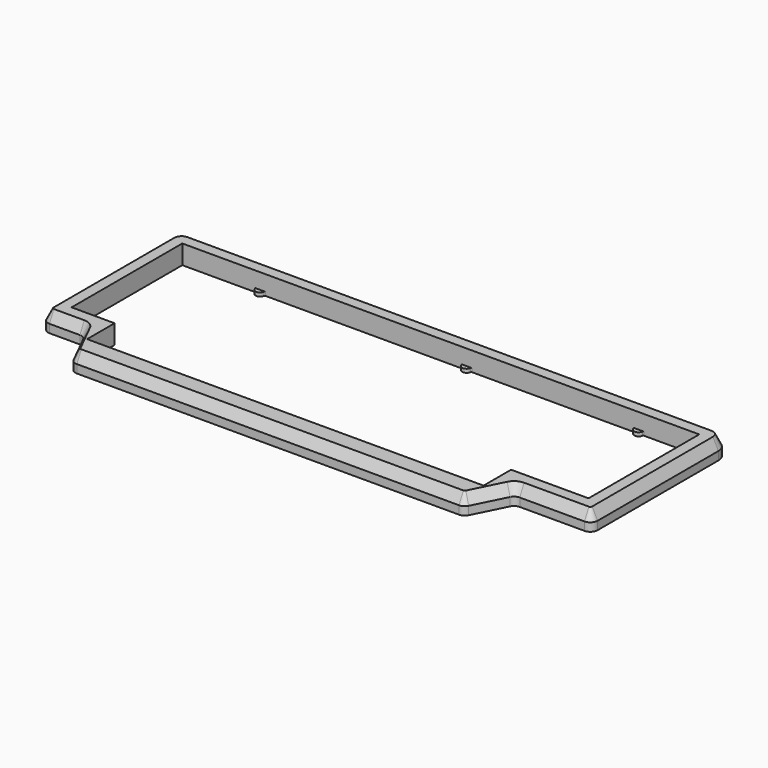
from build123d import *

# Parameters (mm, degrees)
PAD_DEPTH      = 10.6
PAD005_DEPTH   = 2
FILLET_R       = 4
FILLET014_R    = 7
CHAMFER_SIZE2  = 6
CHAMFER_SIZE   = 3
SKETCH020_R    = 1.25
HOLE007_DEPTH  = 5
HOLE007_TIPS_R = 1.25


with BuildPart() as part:
    # Sketch → Pad (new body)
    with BuildSketch(Plane.XY):
        Polygon((-152.075, 56.825), (152.075, 56.825), (152.075, -37.775), (109.7375, -37.775), (98.7125, -59.825), (-117.7625, -59.825), (-128.7875, -37.775), (-152.075, -37.775), align=None)
        Polygon((-143.075, 47.825), (143.075, 47.825), (143.075, -28.775), (100.2125, -28.775), (100.2125, -47.825), (-119.2625, -47.825), (-119.2625, -28.775), (-143.075, -28.775), align=None, mode=Mode.SUBTRACT)
    extrude(amount=PAD_DEPTH)

    # Sketch011 (on Face17 of Pad) → Pad005 (join)
    with BuildSketch(Plane(origin=(0, 0, 0), x_dir=(1, 0, 0), z_dir=(0, 0, -1))):
        with BuildLine():
            ThreePointArc((16.752533, -47.408333), (14.2875, -45.325), (11.822467, -47.408333))
            ThreePointArc((11.32946, -47.825), (11.652209, -47.706881), (11.822467, -47.408333))
            Line((11.32946, -47.825), (17.24554, -47.825))
            ThreePointArc((16.752533, -47.408333), (16.922791, -47.706881), (17.24554, -47.825))
        make_face()
        with BuildLine():
            ThreePointArc((112.002533, -47.408333), (109.5375, -45.325), (107.072467, -47.408333))
            ThreePointArc((106.57946, -47.825), (106.902209, -47.706881), (107.072467, -47.408333))
            Line((106.57946, -47.825), (112.49554, -47.825))
            ThreePointArc((112.002533, -47.408333), (112.172791, -47.706881), (112.49554, -47.825))
        make_face()
        with BuildLine():
            ThreePointArc((-97.547467, -47.408333), (-100.0125, -45.325), (-102.477533, -47.408333))
            ThreePointArc((-102.97054, -47.825), (-102.647791, -47.706881), (-102.477533, -47.408333))
            Line((-102.97054, -47.825), (-97.05446, -47.825))
            ThreePointArc((-97.547467, -47.408333), (-97.377209, -47.706881), (-97.05446, -47.825))
        make_face()
        with BuildLine():
            ThreePointArc((73.734967, 47.408333), (76.2, 45.325), (78.665033, 47.408333))
            ThreePointArc((79.15804, 47.825), (78.835291, 47.706881), (78.665033, 47.408333))
            Line((73.24196, 47.825), (79.15804, 47.825))
            ThreePointArc((73.734967, 47.408333), (73.564709, 47.706881), (73.24196, 47.825))
        make_face()
        with BuildLine():
            ThreePointArc((-97.715033, 47.408333), (-95.25, 45.325), (-92.784967, 47.408333))
            ThreePointArc((-92.29196, 47.825), (-92.614709, 47.706881), (-92.784967, 47.408333))
            Line((-98.20804, 47.825), (-92.29196, 47.825))
            ThreePointArc((-97.715033, 47.408333), (-97.885291, 47.706881), (-98.20804, 47.825))
        make_face()
    extrude(amount=-PAD005_DEPTH)

    # Fillet
    fillet_edges = [part.edges().sort_by_distance(p)[0] for p in [
        (98.7125, -59.825, 5.3),
        (109.7375, -37.775, 5.3),
        (152.075, -37.775, 5.3),
        (-117.7625, -59.825, 5.3),
        (-152.075, -37.775, 5.3),
        (-128.7875, -37.775, 5.3),
    ]]
    fillet(fillet_edges, radius=FILLET_R)

    # Fillet014
    fillet014_edges = [part.edges().sort_by_distance(p)[0] for p in [
        (152.075, 56.825, 5.3),
        (-152.075, 56.825, 5.3),
    ]]
    fillet(fillet014_edges, radius=FILLET014_R)

    # Chamfer
    chamfer_edges = [part.edges().sort_by_distance(p)[0] for p in [
        (-9.525, -59.825, 10.6),
    ]]
    chamfer_side = part.faces().sort_by_distance((148.817479, 8.025, 10.6))[0]
    chamfer(chamfer_edges, length=CHAMFER_SIZE, length2=CHAMFER_SIZE2, reference=chamfer_side)

    # Sketch020 (on Face4 of Chamfer) → Hole007 (cut)
    with BuildSketch(Plane(origin=(0, 0, 0), x_dir=(1, 0, 0), z_dir=(0, 0, -1))):
        with Locations((95.25, 52.325)):
            Circle(SKETCH020_R)
        with Locations((147.575, 19.05)):
            Circle(SKETCH020_R)
        with Locations((147.575, -52.325)):
            Circle(SKETCH020_R)
        with Locations((19.05, -52.325)):
            Circle(SKETCH020_R)
        with Locations((-19.05, -52.325)):
            Circle(SKETCH020_R)
        with Locations((-147.575, -52.325)):
            Circle(SKETCH020_R)
        with Locations((-147.575, 19.05)):
            Circle(SKETCH020_R)
        with Locations((-95.25, 52.325)):
            Circle(SKETCH020_R)
    extrude(amount=-HOLE007_DEPTH, mode=Mode.SUBTRACT)

    # Hole007 tips → Hole007 tip 1 section 0
    with BuildSketch(Plane(origin=(0, 0, 5), x_dir=(1, 0, 0), z_dir=(0, 0, -1)), mode=Mode.PRIVATE) as hole007_tip_1_s0:
        with Locations((95.25, 52.325)):
            Circle(HOLE007_TIPS_R)
    loft([hole007_tip_1_s0.sketch, Vertex(95.25, -52.325, 5.751076)], mode=Mode.SUBTRACT)

    # Hole007 tips → Hole007 tip 2 section 0
    with BuildSketch(Plane(origin=(0, 0, 5), x_dir=(1, 0, 0), z_dir=(0, 0, -1)), mode=Mode.PRIVATE) as hole007_tip_2_s0:
        with Locations((147.575, 19.05)):
            Circle(HOLE007_TIPS_R)
    loft([hole007_tip_2_s0.sketch, Vertex(147.575, -19.05, 5.751076)], mode=Mode.SUBTRACT)

    # Hole007 tips → Hole007 tip 3 section 0
    with BuildSketch(Plane(origin=(0, 0, 5), x_dir=(1, 0, 0), z_dir=(0, 0, -1)), mode=Mode.PRIVATE) as hole007_tip_3_s0:
        with Locations((147.575, -52.325)):
            Circle(HOLE007_TIPS_R)
    loft([hole007_tip_3_s0.sketch, Vertex(147.575, 52.325, 5.751076)], mode=Mode.SUBTRACT)

    # Hole007 tips → Hole007 tip 4 section 0
    with BuildSketch(Plane(origin=(0, 0, 5), x_dir=(1, 0, 0), z_dir=(0, 0, -1)), mode=Mode.PRIVATE) as hole007_tip_4_s0:
        with Locations((19.05, -52.325)):
            Circle(HOLE007_TIPS_R)
    loft([hole007_tip_4_s0.sketch, Vertex(19.05, 52.325, 5.751076)], mode=Mode.SUBTRACT)

    # Hole007 tips → Hole007 tip 5 section 0
    with BuildSketch(Plane(origin=(0, 0, 5), x_dir=(1, 0, 0), z_dir=(0, 0, -1)), mode=Mode.PRIVATE) as hole007_tip_5_s0:
        with Locations((-19.05, -52.325)):
            Circle(HOLE007_TIPS_R)
    loft([hole007_tip_5_s0.sketch, Vertex(-19.05, 52.325, 5.751076)], mode=Mode.SUBTRACT)

    # Hole007 tips → Hole007 tip 6 section 0
    with BuildSketch(Plane(origin=(0, 0, 5), x_dir=(1, 0, 0), z_dir=(0, 0, -1)), mode=Mode.PRIVATE) as hole007_tip_6_s0:
        with Locations((-147.575, -52.325)):
            Circle(HOLE007_TIPS_R)
    loft([hole007_tip_6_s0.sketch, Vertex(-147.575, 52.325, 5.751076)], mode=Mode.SUBTRACT)

    # Hole007 tips → Hole007 tip 7 section 0
    with BuildSketch(Plane(origin=(0, 0, 5), x_dir=(1, 0, 0), z_dir=(0, 0, -1)), mode=Mode.PRIVATE) as hole007_tip_7_s0:
        with Locations((-147.575, 19.05)):
            Circle(HOLE007_TIPS_R)
    loft([hole007_tip_7_s0.sketch, Vertex(-147.575, -19.05, 5.751076)], mode=Mode.SUBTRACT)

    # Hole007 tips → Hole007 tip 8 section 0
    with BuildSketch(Plane(origin=(0, 0, 5), x_dir=(1, 0, 0), z_dir=(0, 0, -1)), mode=Mode.PRIVATE) as hole007_tip_8_s0:
        with Locations((-95.25, 52.325)):
            Circle(HOLE007_TIPS_R)
    loft([hole007_tip_8_s0.sketch, Vertex(-95.25, -52.325, 5.751076)], mode=Mode.SUBTRACT)


solid = part.part
